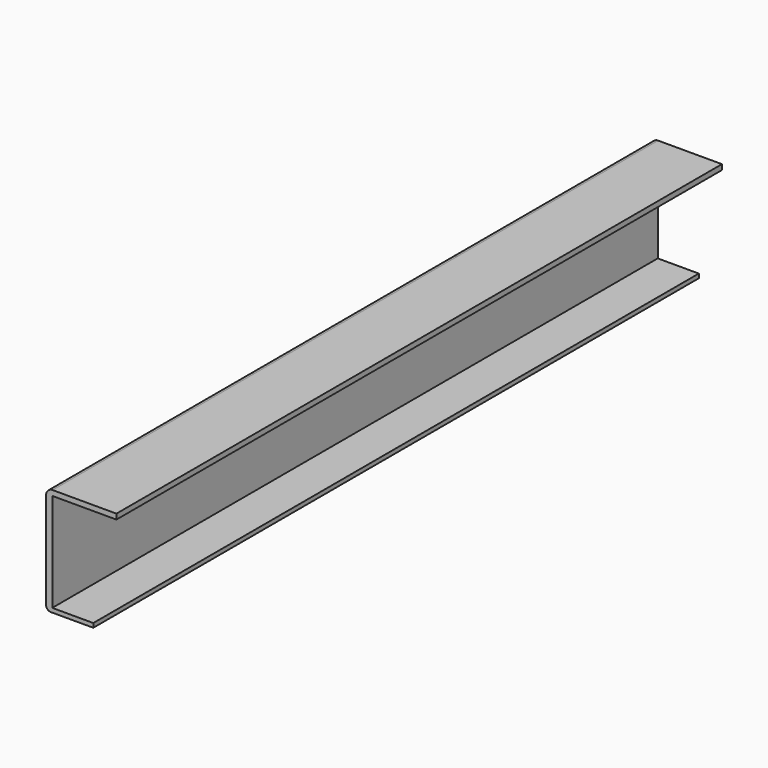
from build123d import *

# Parameters (mm, degrees)
F0_W      = 195.9098130465
F0_H      = 83.3830982447
F1_DEPTH  = 4.7625
F2_W      = 195.9098130465
F2_H      = 3.2381750643
F3_DEPTH  = 34.8488
F4_R      = 3.6792614691
F5_DEPTH  = 3.175
F6_W      = 195.9098130465
F6_H      = 4.0477178991
F7_DEPTH  = 49.53
F8_R      = 5.08
F9_DEPTH  = 317.5
F10_DEPTH = 317.5
F11_DEPTH = 123.3551
F12_DEPTH = 123.3551


with BuildPart() as f1:
    # F0 (on Right) → F1 (new body)
    with BuildSketch(Plane.YZ):
        Rectangle(F0_W, F0_H)
    extrude(amount=F1_DEPTH)

    # F2 (on face) → F3 (join)
    with BuildSketch(Plane.YZ.offset(4.7625)):
        with Locations((0, -40.0724615902)):
            Rectangle(F2_W, F2_H)
    extrude(amount=F3_DEPTH)

    # F4
    f4_edges = [f1.edges().sort_by_distance(p)[0] for p in [
        (0, 0, -41.691549),
    ]]
    fillet(f4_edges, radius=F4_R)

    # F5 (cut): a face of the model
    f5_faces = [f1.faces().sort_by_distance(p)[0] for p in [
        (39.6113, 0, -40.0724615902),
    ]]
    extrude(f5_faces, amount=-F5_DEPTH, mode=Mode.SUBTRACT)

    # F6 (on face) → F7 (join)
    with BuildSketch(Plane.YZ.offset(4.7625)):
        with Locations((0, 39.6676901728)):
            Rectangle(F6_W, F6_H)
    extrude(amount=F7_DEPTH)

    # F8
    f8_edges = [f1.edges().sort_by_distance(p)[0] for p in [
        (0, 0, 41.691549),
    ]]
    fillet(f8_edges, radius=F8_R)

    # F9 (add): a face of the model
    f9_faces = [f1.faces().sort_by_distance(p)[0] for p in [
        (29.68625, 97.9549065232, 40.696540749),
    ]]
    extrude(f9_faces, amount=F9_DEPTH)

    # F10 (add): a face of the model
    f10_faces = [f1.faces().sort_by_distance(p)[0] for p in [
        (0.9950083733, -97.9549065232, -0.7003692655),
    ]]
    extrude(f10_faces, amount=F10_DEPTH)

    # F11 (cut): a face of the model
    f11_faces = [f1.faces().sort_by_distance(p)[0] for p in [
        (29.68625, 415.4549065232, 40.696540749),
    ]]
    extrude(f11_faces, amount=-F11_DEPTH, mode=Mode.SUBTRACT)

    # F12 (cut): a face of the model
    f12_faces = [f1.faces().sort_by_distance(p)[0] for p in [
        (0.9950083733, -415.4549065232, -0.7003692655),
    ]]
    extrude(f12_faces, amount=-F12_DEPTH, mode=Mode.SUBTRACT)


solid = f1.part
